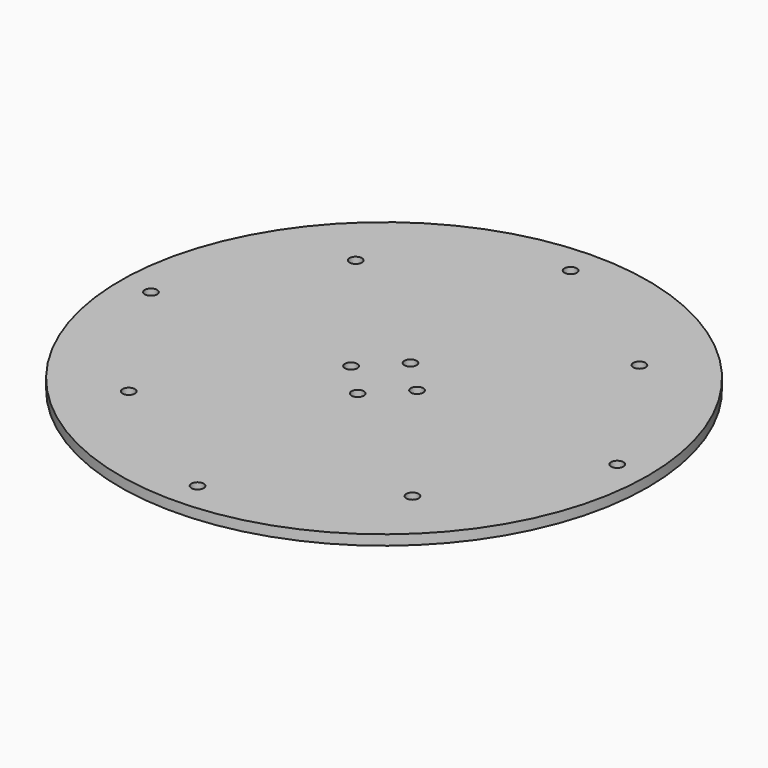
from build123d import *

# Parameters (mm, degrees)
F0_R     = 76.2
F0_R_2   = 1.778
F1_DEPTH = 2.921


with BuildPart() as f1:
    # F0 (on Top) → F1 (new body)
    with BuildSketch(Plane.XY):
        with Locations((76.2, 76.2)):
            Circle(F0_R)
        with Locations((35.250032, 35.250032)):
            Circle(F0_R_2, mode=Mode.SUBTRACT)
        with Locations((76.2, 8.89)):
            Circle(F0_R_2, mode=Mode.SUBTRACT)
        with Locations((117.149968, 35.250032)):
            Circle(F0_R_2, mode=Mode.SUBTRACT)
        with Locations((76.2, 66.675)):
            Circle(F0_R_2, mode=Mode.SUBTRACT)
        with Locations((8.89, 76.2)):
            Circle(F0_R_2, mode=Mode.SUBTRACT)
        with Locations((66.675, 76.2)):
            Circle(F0_R_2, mode=Mode.SUBTRACT)
        with Locations((35.250032, 117.149968)):
            Circle(F0_R_2, mode=Mode.SUBTRACT)
        with Locations((85.725, 76.2)):
            Circle(F0_R_2, mode=Mode.SUBTRACT)
        with Locations((76.2, 85.725)):
            Circle(F0_R_2, mode=Mode.SUBTRACT)
        with Locations((143.51, 76.2)):
            Circle(F0_R_2, mode=Mode.SUBTRACT)
        with Locations((76.2, 143.51)):
            Circle(F0_R_2, mode=Mode.SUBTRACT)
        with Locations((117.149968, 117.149968)):
            Circle(F0_R_2, mode=Mode.SUBTRACT)
    extrude(amount=F1_DEPTH)


solid = f1.part
